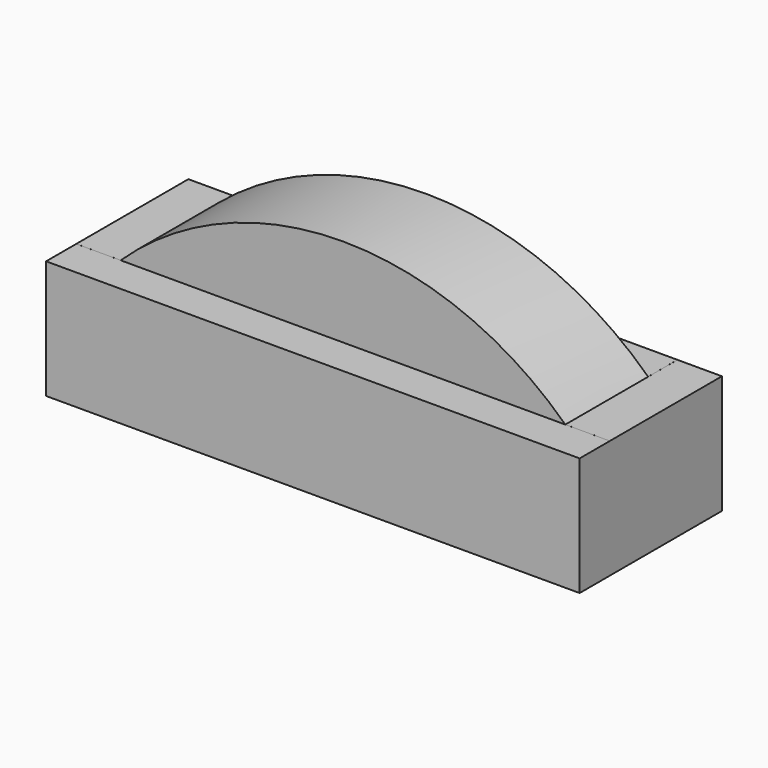
from build123d import *

# Parameters (mm, degrees)
F1_DEPTH      = 304.8
F2_W          = 62.777817
F2_H          = 242.879308
F2_W_2        = 82.167253
F2_H_2        = 251.265079
F3_DEPTH      = 914.4
F3_DEPTH_BACK = 457.2


with BuildPart() as f1:
    # F0 (on Front) → F1 (new body)
    with BuildSketch(Plane.XZ):
        Polygon((457.2, -101.6), (457.2, 101.6), (381, 101.6), (-381, 101.6), (-457.2, 101.6), (-457.2, -101.6), align=None)
        with BuildLine():
            Line((-381, 101.6), (381, 101.6))
            ThreePointArc((381, 101.6), (0, 254), (-381, 101.6))
        make_face()
    extrude(amount=F1_DEPTH)

    # F2 (on Right) → F3 (cut, two sides)
    with BuildSketch(Plane.YZ) as f3_sk:
        with Locations((-31.388908, 223.070424)):
            Rectangle(F2_W, F2_H)
        with Locations((-281.295098, 227.213308)):
            Rectangle(F2_W_2, F2_H_2)
    extrude(amount=F3_DEPTH, mode=Mode.SUBTRACT)
    extrude(f3_sk.sketch, amount=-F3_DEPTH_BACK, mode=Mode.SUBTRACT)


solid = f1.part
